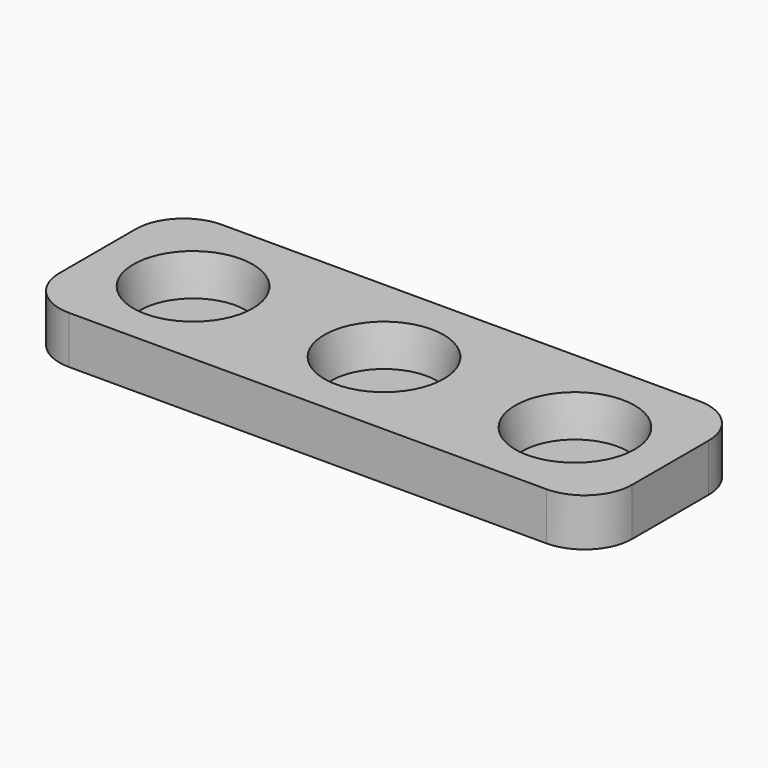
from build123d import *

# Parameters (mm, degrees)
F0_W     = 240
F0_H     = 80
F1_DEPTH = 20
F2_R     = 25
F3_DEPTH = 16
F3_TAPER = 10
F4_R     = 20


with BuildPart() as f1:
    # F0 (on Top) → F1 (new body)
    with BuildSketch(Plane.XY):
        with Locations((120, 40)):
            Rectangle(F0_W, F0_H)
    extrude(amount=F1_DEPTH)

    # F2 (on face) → F3 (cut)
    with BuildSketch(Plane.XY.offset(20)):
        with Locations((40, 40)):
            Circle(F2_R)
        with Locations((120, 40)):
            Circle(F2_R)
        with Locations((200, 40)):
            Circle(F2_R)
    extrude(amount=-F3_DEPTH, taper=F3_TAPER, mode=Mode.SUBTRACT)

    # F4
    f4_edges = [f1.edges().sort_by_distance(p)[0] for p in [
        (240, 0, 10),
        (240, 80, 10),
        (0, 80, 10),
        (0, 0, 10),
    ]]
    fillet(f4_edges, radius=F4_R)


solid = f1.part
